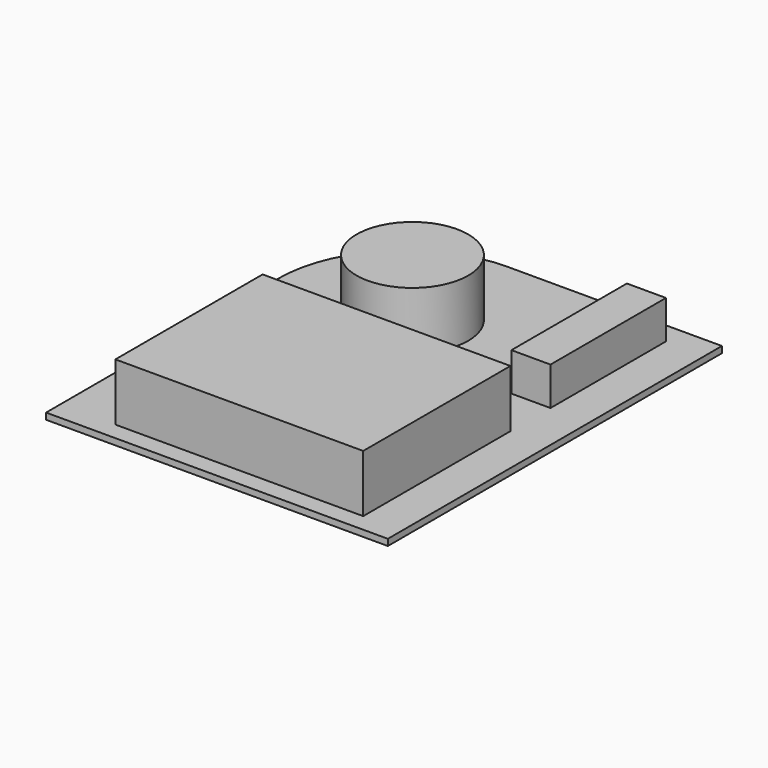
from build123d import *

# Parameters (mm, degrees)
F0_R     = 17.5
F1_DEPTH = 20
F0_W     = 12.25
F0_H     = 45.25
F2_DEPTH = 14
F0_W_2   = 77.7
F0_H_2   = 57.7
F3_DEPTH = 20
F4_DEPTH = 2


with BuildPart() as f1:
    # F0 (on Top) → F1 (new body)
    with BuildSketch(Plane.XY):
        with Locations((-42.359097, 57.228414)):
            Circle(F0_R)
    extrude(amount=F1_DEPTH)


with BuildPart() as f2:
    # F0 (on Top) → F2 (new body)
    with BuildSketch(Plane.XY):
        with Locations((7.015903, 64.584966)):
            Rectangle(F0_W, F0_H)
    extrude(amount=F2_DEPTH)


with BuildPart() as f3:
    # F0 (on Top) → F3 (new body)
    with BuildSketch(Plane.XY):
        with Locations((-25.709097, -2.590034)):
            Rectangle(F0_W_2, F0_H_2)
    extrude(amount=F3_DEPTH)


with BuildPart() as f4:
    # F0 (on Top) → F4 (new body)
    with BuildSketch(Plane.XY):
        with BuildLine():
            Line((-81.795476, -37.048921), (25.355306, -37.048921))
            Line((25.355306, -37.048921), (25.355306, 93.874726))
            Line((25.355306, 93.874726), (-41.795476, 93.874726))
            ThreePointArc((-41.795476, 93.874726), (-70.079748, 82.158998), (-81.795476, 53.874726))
            Line((-81.795476, 53.874726), (-81.795476, -37.048921))
        make_face()
        with Locations((-25.709097, -2.590034)):
            Rectangle(F0_W_2, F0_H_2, mode=Mode.SUBTRACT)
        with Locations((-42.359097, 57.228414)):
            Circle(F0_R, mode=Mode.SUBTRACT)
        with Locations((7.015903, 64.584966)):
            Rectangle(F0_W, F0_H, mode=Mode.SUBTRACT)
    extrude(amount=F4_DEPTH)


solid = Compound([f1.part, f2.part, f3.part, f4.part])
